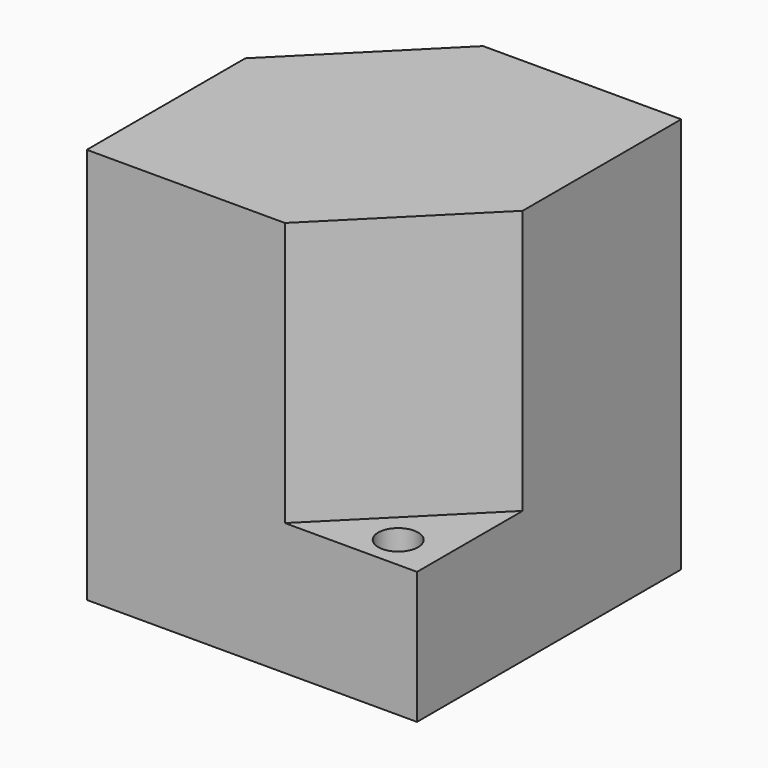
from build123d import *

# Parameters (mm, degrees)
F0_W     = 127
F0_H     = 127
F1_DEPTH = 152.4
F3_DEPTH = 101.6
F4_R     = 7.6138039838
F4_R_2   = 7.6607113174
F5_DEPTH = 203.2
F6_T     = -2.54


with BuildPart() as f1:
    # F0 (on Top) → F1 (new body)
    with BuildSketch(Plane.XY):
        with Locations((4.3386593461, -2.4487966104)):
            Rectangle(F0_W, F0_H)
    extrude(amount=F1_DEPTH)

    # F2 (on face) → F3 (cut)
    with BuildSketch(Plane.XY.offset(152.4)):
        Polygon((-8.3613406539, 61.0512033896), (-59.1613406539, 61.0512033896), (-59.1613406539, 10.2512033896), align=None)
        Polygon((67.8386593461, -15.1487966104), (17.0386593461, -65.9487966104), (67.8386593461, -65.9487966104), align=None)
    extrude(amount=-F3_DEPTH, mode=Mode.SUBTRACT)

    # F4 (on face) → F5 (cut)
    with BuildSketch(Plane.XY.offset(50.8)):
        with Locations((-45.811150223, 46.3215783238)):
            Circle(F4_R)
        with Locations((50.4050254822, -53.2123930752)):
            Circle(F4_R_2)
    extrude(amount=-F5_DEPTH, mode=Mode.SUBTRACT)

    # F6
    f6_openings = [f1.faces().sort_by_distance(p)[0] for p in [
        (4.379261, -2.418518, 0),
    ]]
    offset(amount=F6_T, openings=f6_openings, kind=Kind.INTERSECTION)


solid = f1.part
